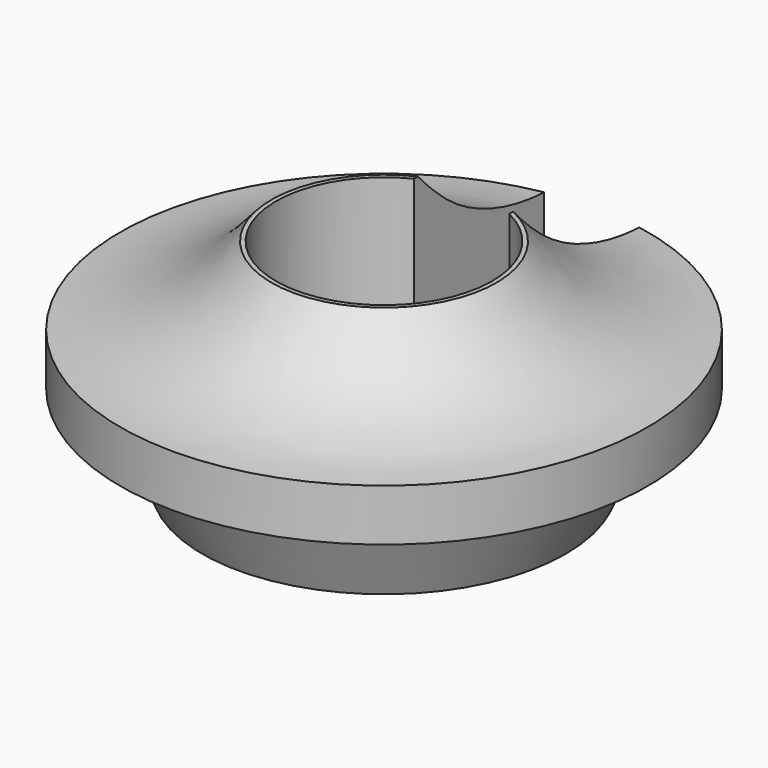
from build123d import *

# Parameters (mm, degrees)
F3_DEPTH = 25


with BuildPart() as f1:
    # F0 (on Front) → F1 (revolve)
    with BuildSketch(Plane.XZ):
        with BuildLine():
            Line((1.1, -0.8617808444), (1.1, -1.8617808444))
            Line((1.1, -1.8617808444), (4.2, -1.8617808444))
            Line((4.2, -1.8617808444), (5.1, 0.1382191556))
            Line((5.1, 0.1382191556), (6.1, 0.1382191556))
            Line((6.1, 0.1382191556), (6.1, 1.3382191556))
            add(Edge.make_bspline(
                [(2.6, 3.1382191556), (2.9923542671, 2.6659549859), (3.8322964543, 1.7957891713), (5.3026131043, 1.3670006915), (6.1, 1.3382191556)],
                knots=[0, 0, 0, 0, 0.4701168528, 1, 1, 1, 1], degree=3))
            Line((2.6, 3.1382191556), (2.5, 3.1382191556))
            Line((2.5, 3.1382191556), (2.5, -0.8617808444))
            Line((2.5, -0.8617808444), (1.1, -0.8617808444))
        make_face()
    revolve(axis=Axis((0, 0, 0.7220712048), (0, 0, 1)))

    # F2 (on Front) → F3 (cut)
    with BuildSketch(Plane.XZ):
        Polygon((1.1, -3.7043033991), (1.1, -1.8617808444), (1.1, -0.8617808444), (1.1, 3.7789170165), (0, 3.7789170165), (-1.1, 3.7789170165), (-1.1, -3.7043033991), (0, -3.7043033991), align=None)
    extrude(amount=-F3_DEPTH, mode=Mode.SUBTRACT)


solid = f1.part
